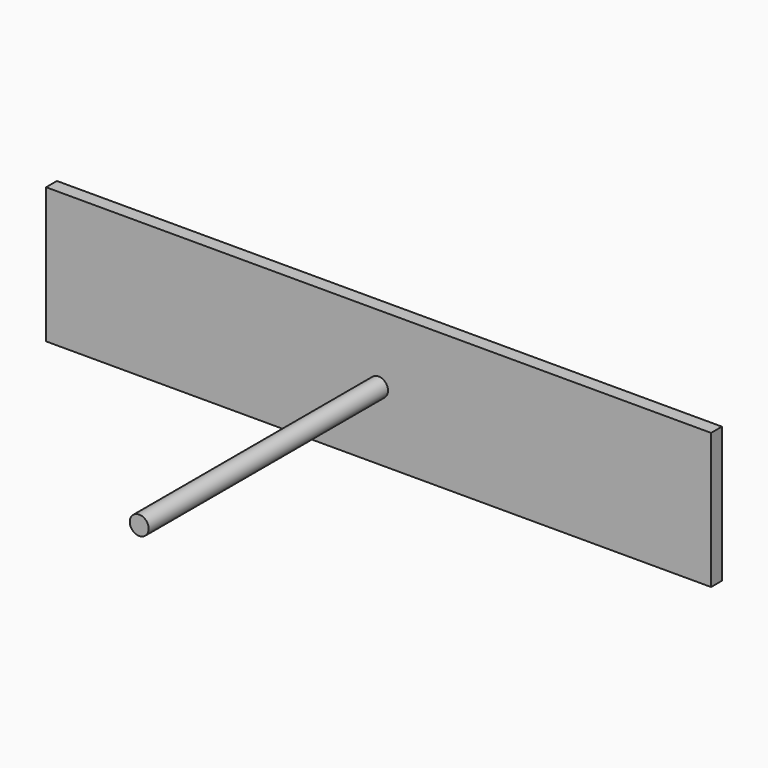
from build123d import *

# Parameters (mm, degrees)
F0_W     = 77.7875
F0_H     = 31.75
F1_DEPTH = 3.175
F3_R     = 2.2098
F4_DEPTH = 70


with BuildPart() as f1:
    # F0 (on Front) → F1 (new body)
    with BuildSketch(Plane.XZ):
        with Locations((-0.282224, 31.94195)):
            Rectangle(F0_W, F0_H)
        with Locations((77.505276, 31.94195)):
            Rectangle(F0_W, F0_H)
    extrude(amount=F1_DEPTH)

    # F3 (on face) → F4 (join)
    with BuildSketch(Plane.XZ.offset(3.175)):
        with Locations((38.613036, 31.945616)):
            Circle(F3_R)
    extrude(amount=F4_DEPTH)


solid = f1.part
